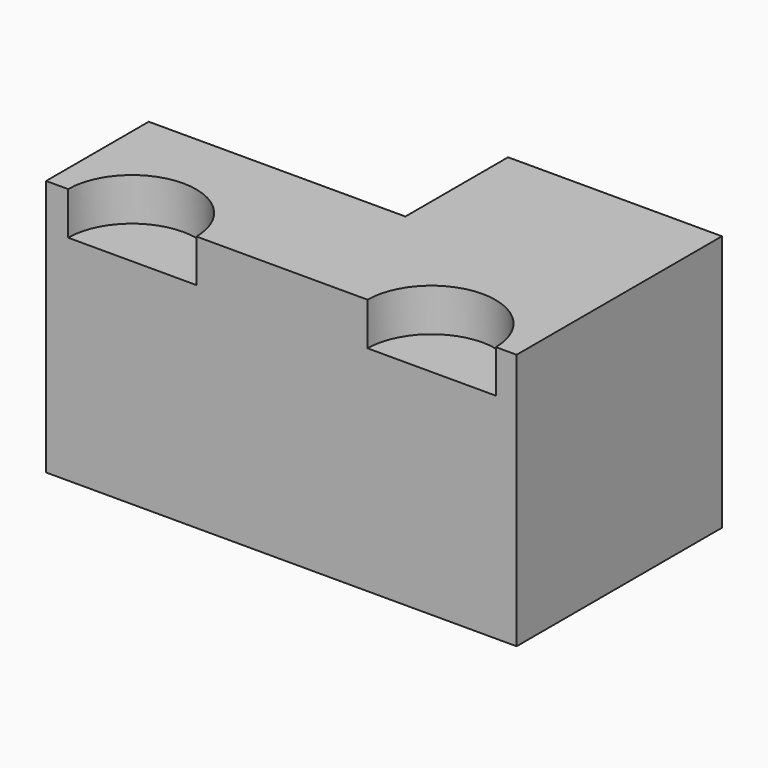
from build123d import *

# Parameters (mm, degrees)
F1_DEPTH = 15
F2_R     = 7.5
F3_DEPTH = 5


with BuildPart() as f1:
    # F0 (on Top) → F1 (new body, symmetric)
    with BuildSketch(Plane.XY):
        Polygon((-25.634218, -15), (29.365782, -15), (29.365782, 15), (4.365782, 15), (4.365782, 0), (-25.634218, 0), align=None)
    extrude(amount=F1_DEPTH, both=True)

    # F2 (on face) → F3 (cut)
    with BuildSketch(Plane.XY.offset(15)):
        with Locations((-15.558378, -15.042184)):
            Circle(F2_R)
        with Locations((19.441622, -15.042184)):
            Circle(F2_R)
    extrude(amount=-F3_DEPTH, mode=Mode.SUBTRACT)


solid = f1.part
